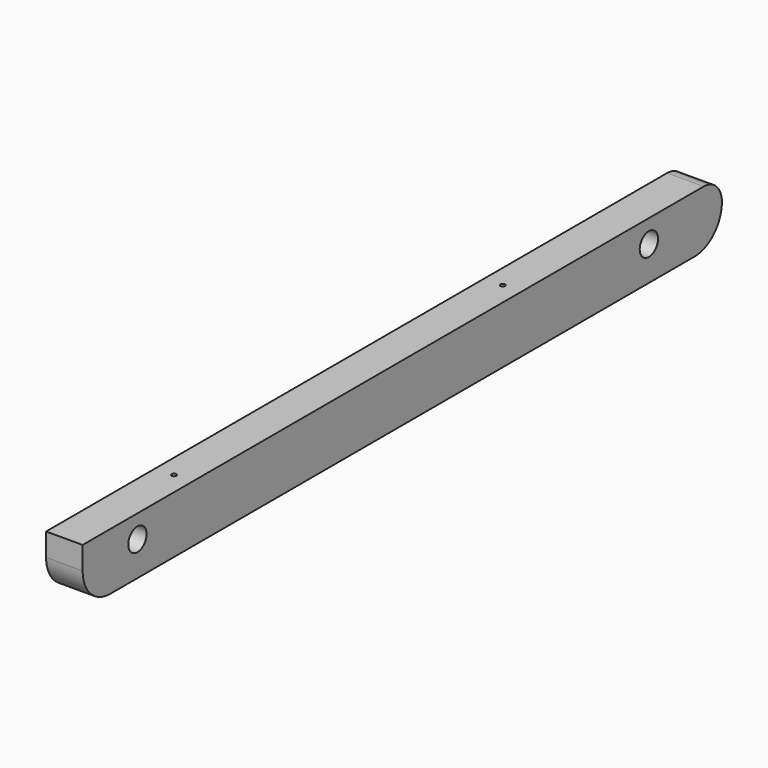
from build123d import *

# Parameters (mm, degrees)
F0_R     = 5
F1_DEPTH = 8
F2_R     = 1
F3_DEPTH = 25.001


with BuildPart() as f1:
    # F0 (on Right) → F1 (new body, symmetric)
    with BuildSketch(Plane.YZ):
        with BuildLine():
            ThreePointArc((175, -10), (172.071068, -2.928932), (165, 0))
            Line((165, 0), (-175, 0))
            Line((-175, 0), (-175, -10))
            ThreePointArc((-175, -10), (-170.606602, -20.606602), (-160, -25))
            Line((-160, -25), (160, -25))
            ThreePointArc((160, -25), (170.606602, -20.606602), (175, -10))
        make_face()
        with Locations((-145, -10)):
            Circle(F0_R, mode=Mode.SUBTRACT)
        with Locations((135, -10)):
            Circle(F0_R, mode=Mode.SUBTRACT)
    extrude(amount=F1_DEPTH, both=True)

    # F2 (on Top) → F3 (cut, through all)
    with BuildSketch(Plane.XY):
        with Locations((0, 65)):
            Circle(F2_R)
        with Locations((0, -115)):
            Circle(F2_R)
    extrude(amount=-F3_DEPTH, mode=Mode.SUBTRACT)


solid = f1.part
